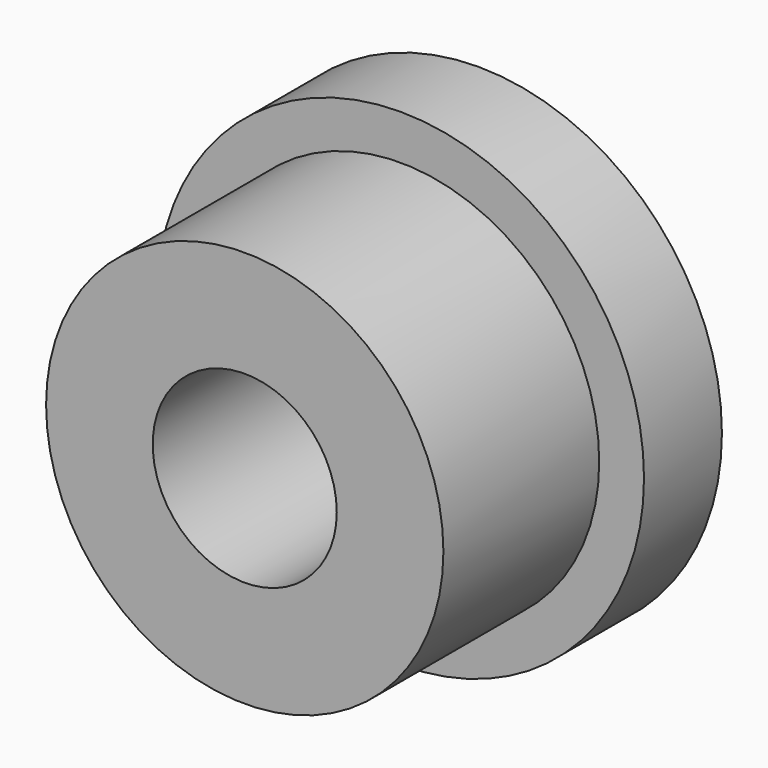
from build123d import *

# Parameters (mm, degrees)
F0_R     = 20.4
F0_R_2   = 9.45
F1_DEPTH = 30
F0_R_3   = 25
F2_DEPTH = 10


with BuildPart() as f1:
    # F0 (on Front) → F1 (new body)
    with BuildSketch(Plane.XZ):
        Circle(F0_R)
        Circle(F0_R_2, mode=Mode.SUBTRACT)
    extrude(amount=F1_DEPTH)

    # F0 (on Front) → F2 (join)
    with BuildSketch(Plane.XZ):
        Circle(F0_R_3)
        Circle(F0_R, mode=Mode.SUBTRACT)
    extrude(amount=F2_DEPTH)


solid = f1.part
